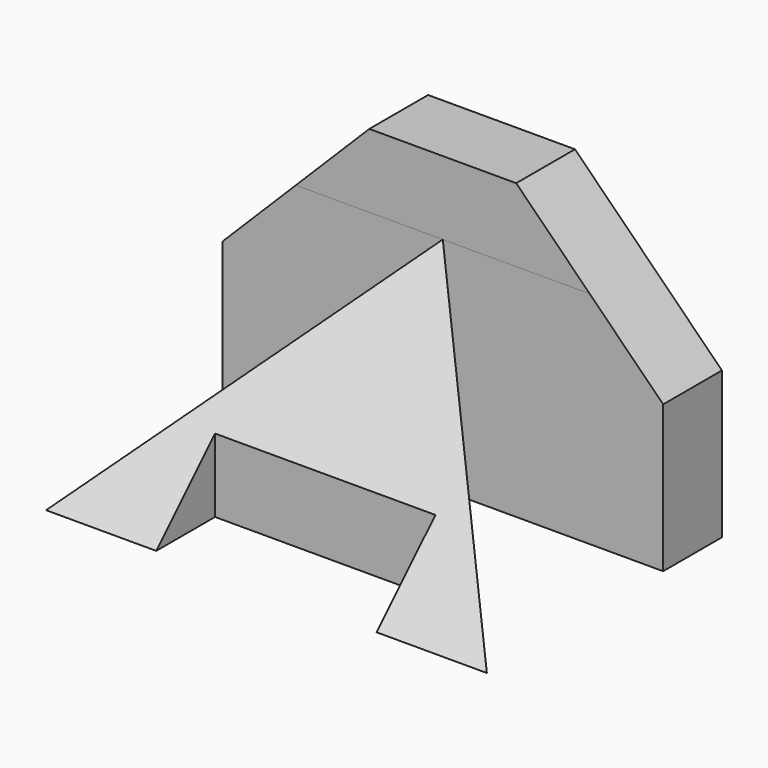
from build123d import *

# Parameters (mm, degrees)
F1_DEPTH = 76.2
F3_DEPTH = 50.801
F5_DEPTH = 50.801
F6_W     = 38.1
F6_H     = 12.7
F7_DEPTH = 25.4


with BuildPart() as f1:
    # F0 (on Right) → F1 (new body)
    with BuildSketch(Plane.YZ):
        Polygon((38.1, 38.1), (0, 0), (38.1, 0), align=None)
        Polygon((38.1, 38.1), (38.1, 0), (50.8, 0), (50.8, 50.8), (38.1, 50.8), align=None)
    extrude(amount=F1_DEPTH)

    # F2 (on Front) → F3 (cut, through all)
    with BuildSketch(Plane.XZ):
        Polygon((0, 50.8), (0, 25.4), (25.4, 50.8), align=None)
        Polygon((50.8, 50.8), (76.2, 25.4), (76.2, 50.8), align=None)
    extrude(amount=-F3_DEPTH, mode=Mode.SUBTRACT)

    # F4 (on face) → F5 (cut, through all)
    with BuildSketch(Plane.XY.offset(50.8)):
        Polygon((50.8, 38.1), (38.1, 38.1), (76.2, 0), (76.2, 38.1), align=None)
        Polygon((0, 38.1), (0, 0), (38.1, 38.1), (25.4, 38.1), align=None)
    extrude(amount=-F5_DEPTH, mode=Mode.SUBTRACT)

    # F6 (on Top) → F7 (cut)
    with BuildSketch(Plane.XY):
        with Locations((38.1, 6.35)):
            Rectangle(F6_W, F6_H)
    extrude(amount=F7_DEPTH, mode=Mode.SUBTRACT)


solid = f1.part
